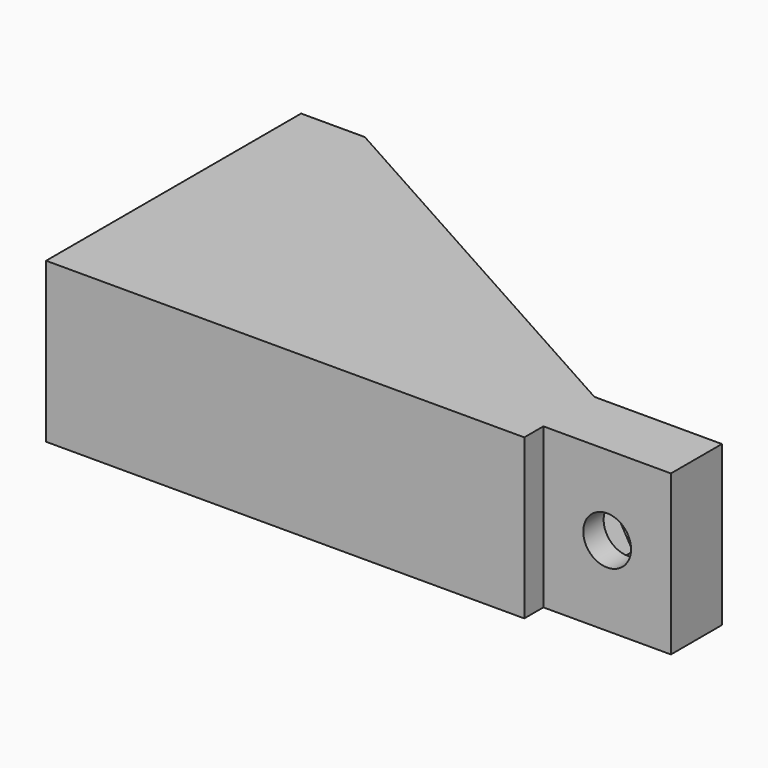
from build123d import *

# Parameters (mm, degrees)
PAD_DEPTH       = 10
SKETCH001_R     = 1.5
POCKET_DEPTH    = 18.501
POCKET001_DEPTH = 2.4
SKETCH003_R     = 1.5
POCKET002_DEPTH = 38.001
POCKET003_DEPTH = 35


with BuildPart() as part:
    # Sketch → Pad (new body)
    with BuildSketch(Plane.XY):
        Polygon((0, 0), (30, 0), (30, 1.5), (38, 1.5), (38, 5.5), (30, 5.5), (4, 20), (0, 20), align=None)
    extrude(amount=PAD_DEPTH)

    # Sketch001 (on Face3 of Pad) → Pocket (cut, through all)
    with BuildSketch(Plane(origin=(30, 1.5, 0), x_dir=(1, 0, 0), z_dir=(0, -1, 0))):
        with Locations((4, 5)):
            Circle(SKETCH001_R)
    extrude(amount=-POCKET_DEPTH, mode=Mode.SUBTRACT)

    # Sketch002 (on Face9 of Pocket) → Pocket001 (cut)
    with BuildSketch(Plane(origin=(0, 5.5, 0), x_dir=(-1, 0, 0), z_dir=(0, 1, 0))):
        Polygon((-30.824574, 5), (-32.412287, 7.75), (-35.587713, 7.75), (-37.175426, 5), (-35.587713, 2.25), (-32.412287, 2.25), align=None)
    extrude(amount=-POCKET001_DEPTH, mode=Mode.SUBTRACT)

    # Sketch003 (on Face2 of Pocket001) → Pocket002 (cut, through all)
    with BuildSketch(Plane(origin=(0, 0, 0), x_dir=(0, -1, 0), z_dir=(-1, 0, 0))):
        with Locations((-15, 5)):
            Circle(SKETCH003_R)
    extrude(amount=-POCKET002_DEPTH, mode=Mode.SUBTRACT)

    # Sketch004 (on Face9 of Pocket002) → Pocket003 (cut)
    with BuildSketch(Plane.YZ.offset(38)):
        Polygon((16.587713, 2.25), (18.175426, 5), (16.587713, 7.75), (13.412287, 7.75), (11.824574, 5), (13.412287, 2.25), align=None)
    extrude(amount=-POCKET003_DEPTH, mode=Mode.SUBTRACT)


solid = part.part
